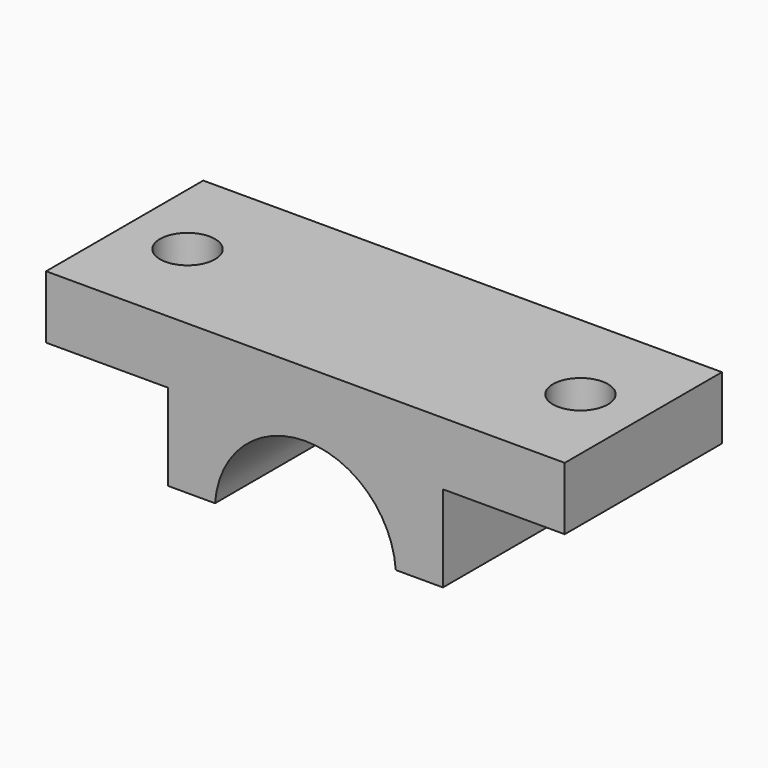
from build123d import *

# Parameters (mm, degrees)
F1_DEPTH = 50
F2_R     = 7
F3_DEPTH = 25


with BuildPart() as f1:
    # F0 (on Front) → F1 (new body)
    with BuildSketch(Plane.XZ):
        with BuildLine():
            Line((70.321968, 0), (-61.678032, 0))
            Line((-61.678032, 0), (-61.678032, -16))
            Line((-61.678032, -16), (-30.678032, -16))
            Line((-30.678032, -16), (-30.678032, -38))
            Line((-30.678032, -38), (-18.678032, -38))
            ThreePointArc((-18.678032, -38), (4.321968, -16.57424), (27.321968, -38))
            Line((27.321968, -38), (39.321968, -38))
            Line((39.321968, -38), (39.321968, -16))
            Line((39.321968, -16), (70.321968, -16))
            Line((70.321968, -16), (70.321968, 0))
        make_face()
    extrude(amount=F1_DEPTH)

    # F2 (on face) → F3 (cut)
    with BuildSketch(Plane.XY):
        with Locations((54.321968, -25)):
            Circle(F2_R)
        with Locations((-45.678032, -25)):
            Circle(F2_R)
    extrude(amount=-F3_DEPTH, mode=Mode.SUBTRACT)


solid = f1.part
